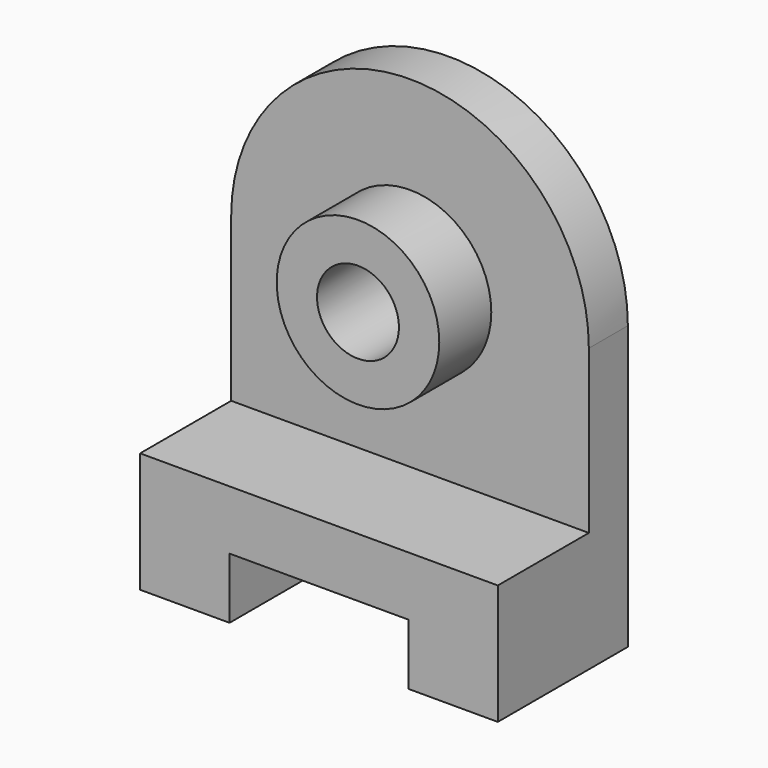
from build123d import *

# Parameters (mm, degrees)
F1_DEPTH  = 12
F3_DEPTH  = 40
F4_R      = 20
F4_R_2    = 10.076215
F5_DEPTH  = 28
F5_FACE_R = 10.076215
F6_DEPTH  = 25


with BuildPart() as f1:
    # F0 (on Front) → F1 (new body)
    with BuildSketch(Plane.XZ):
        with BuildLine():
            Line((-44, 40), (-44, 0))
            Line((-44, 0), (44, 0))
            Line((44, 0), (44, 40))
            ThreePointArc((44, 40), (0, 84), (-44, 40))
        make_face()
    extrude(amount=F1_DEPTH)

    # F2 (on Front) → F3 (join)
    with BuildSketch(Plane.XZ):
        Polygon((44, 0), (-44, 0), (-44, -29.557653), (-22, -29.557653), (-22, -14.557653), (22, -14.557653), (22, -29.557653), (44, -29.557653), align=None)
    extrude(amount=F3_DEPTH)

    # F4 (on Front) → F5 (join)
    with BuildSketch(Plane.XZ):
        with Locations((0, 40)):
            Circle(F4_R)
        with Locations((0, 40)):
            Circle(F4_R_2, mode=Mode.SUBTRACT)
    extrude(amount=F5_DEPTH)

    # F5_face (on face) → F6 (cut)
    with BuildSketch(Plane(origin=(0, -12, 40), x_dir=(1, 0, 0), z_dir=(0, -1, 0))):
        Circle(F5_FACE_R)
    extrude(amount=-F6_DEPTH, mode=Mode.SUBTRACT)


solid = f1.part
